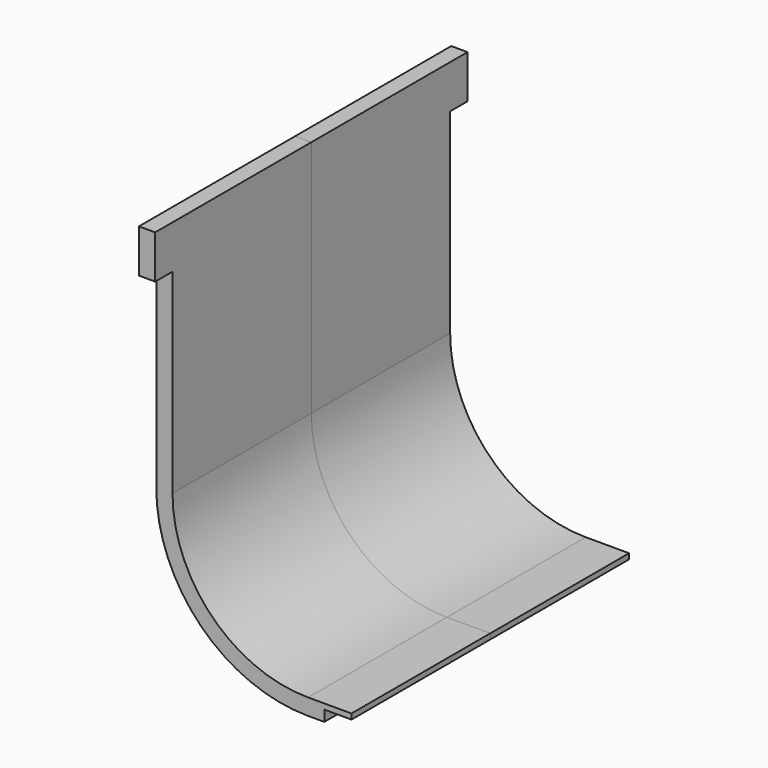
from build123d import *

# Parameters (mm, degrees)
F1_DEPTH = 203.2
F0_W     = 19.05
F0_H     = 50.8
F2_DEPTH = 228.6
F4_W     = 31.7441420532
F4_H     = 203.2
F5_DEPTH = 12.7
F6_W     = 31.75
F6_H     = 203.2
F7_DEPTH = 12.7


with BuildPart() as f1:
    # F0 (on Front) → F1 (new body)
    with BuildSketch(Plane.XZ):
        with BuildLine():
            Line((-567.4942603611, 406.4), (-586.5442603611, 406.4))
            Line((-586.5442603611, 406.4), (-586.5442603611, 177.8))
            ThreePointArc((-586.5442603611, 177.8), (-534.4678460561, 52.076414305), (-408.7442603611, 0))
            Line((-408.7442603611, 0), (-357.9442603611, 0))
            Line((-357.9442603611, 0), (-357.9442603611, 19.05))
            Line((-357.9442603611, 19.05), (-408.7442603611, 19.05))
            ThreePointArc((-408.7442603611, 19.05), (-520.9974618745, 65.5467984866), (-567.4942603611, 177.8))
            Line((-567.4942603611, 177.8), (-567.4942603611, 406.4))
        make_face()
    extrude(amount=F1_DEPTH)

    # F0 (on Front) → F2 (join)
    with BuildSketch(Plane.XZ):
        with Locations((-577.0192603611, 431.8)):
            Rectangle(F0_W, F0_H)
    extrude(amount=F2_DEPTH)


with BuildPart() as f3_1:
    # F3: instance of F1
    add(f1.part.mirror(Plane.XZ))

    # F4 (on face) → F5 (cut)
    with BuildSketch(Plane(origin=(0, 0, 0), x_dir=(1, 0, 0), z_dir=(0, 0, -1))):
        with Locations((-373.8163313877, -101.6)):
            Rectangle(F4_W, F4_H)
    extrude(amount=-F5_DEPTH, mode=Mode.SUBTRACT)


with BuildPart() as f1_1:
    add(f1.part)

    # F4 (on face) + F6 (on face) → F7 (cut)
    with BuildSketch(Plane(origin=(0, 0, 0), x_dir=(1, 0, 0), z_dir=(0, 0, -1))):
        with Locations((-373.8163313877, -101.6)):
            Rectangle(F4_W, F4_H)
    with BuildSketch(Plane(origin=(0, 0, 0), x_dir=(1, 0, 0), z_dir=(0, 0, -1))):
        with Locations((-373.8192603611, 101.6)):
            Rectangle(F6_W, F6_H)
    extrude(amount=-F7_DEPTH, mode=Mode.SUBTRACT)


solid = Compound([f3_1.part, f1_1.part])
